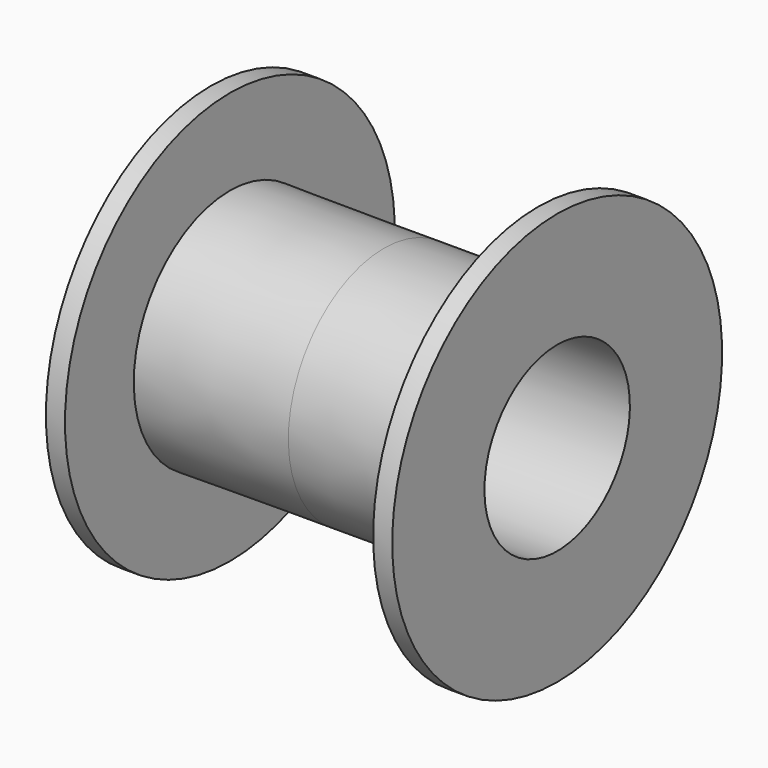
from build123d import *


with BuildPart() as f1:
    # F0 (on Front) → F1 (revolve)
    with BuildSketch(Plane.XZ):
        Polygon((0, 40.009059), (0, 52.621372), (-67.810588, 52.901641), (-67.810588, 90.73858), (-76.218799, 90.73858), (-76.218799, 40.009059), align=None)
        Polygon((67.810588, 52.901641), (0, 52.621372), (0, 40.009059), (76.218799, 40.009059), (76.218799, 90.73858), (67.810588, 90.73858), align=None)
    revolve(axis=Axis((-39.976221, 0, 0), (-1, 0, 0)))


solid = f1.part
